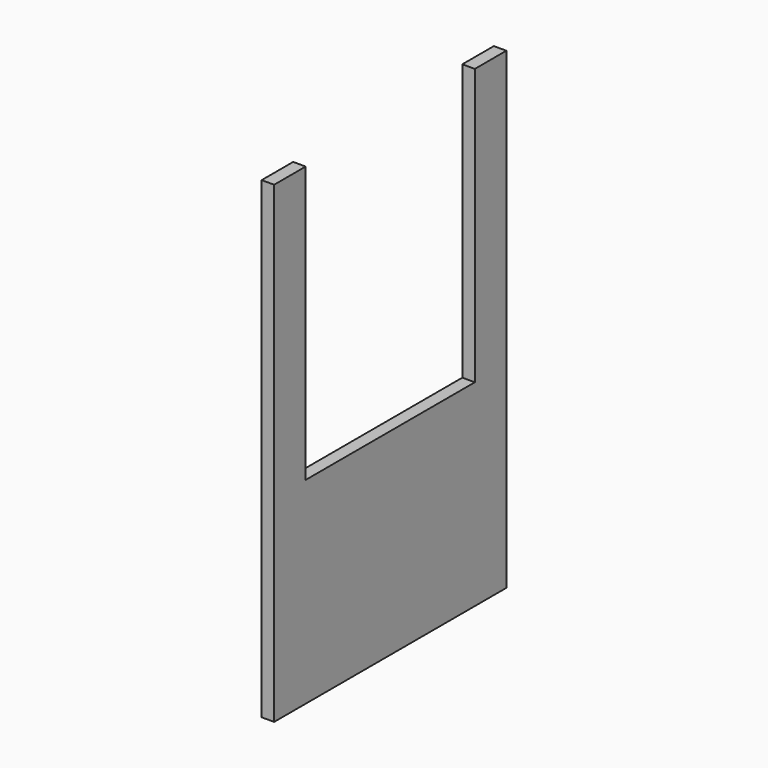
from build123d import *

# Parameters (mm, degrees)
F0_W     = 10
F0_H     = 70
F1_DEPTH = 3.175


with BuildPart() as f1:
    # F0 (on Right) → F1 (new body)
    with BuildSketch(Plane.YZ):
        Polygon((36.825, -25), (26.825, 25), (-26.825, 25), (-36.825, -25), align=None)
        with Locations((31.825, 60)):
            Rectangle(F0_W, F0_H)
        Polygon((36.825, -25), (36.825, 25), (26.825, 25), align=None)
        Polygon((-36.825, -25), (-26.825, 25), (-36.825, 25), align=None)
        with Locations((-31.825, 60)):
            Rectangle(F0_W, F0_H)
        Polygon((36.825, -25), (36.825, 25), (26.825, 25), align=None)
        Polygon((-36.825, -25), (-26.825, 25), (-36.825, 25), align=None)
    extrude(amount=F1_DEPTH)


solid = f1.part
